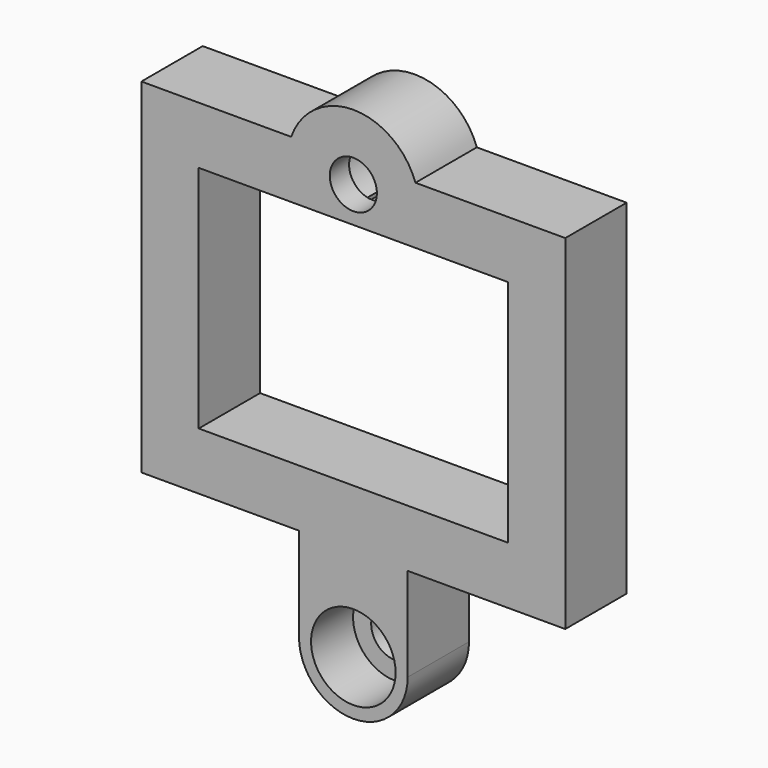
from build123d import *

# Parameters (mm, degrees)
F0_R     = 3.5
F1_DEPTH = 6.35
F0_R_2   = 2
F2_DEPTH = 2
F4_DEPTH = 4.35


with BuildPart() as f1:
    # F0 (on Front) → F1 (new body)
    with BuildSketch(Plane.XZ):
        with BuildLine():
            ThreePointArc((2.95, 12.45), (2.0859650045, 10.3640349955), (0, 9.5))
            ThreePointArc((0, 9.5), (-2.6469321865, 11.1475983722), (-2.3371991785, 14.25))
            Line((-2.3371991785, 14.25), (-5.144171459, 14.25))
            Line((-5.144171459, 14.25), (-17.55, 14.25))
            Line((-17.55, 14.25), (-17.55, -14.25))
            Line((-17.55, -14.25), (-4.5, -14.25))
            Line((-4.5, -14.25), (4.5, -14.25))
            Line((4.5, -14.25), (17.55, -14.25))
            Line((17.55, -14.25), (17.55, 14.25))
            Line((17.55, 14.25), (5.144171459, 14.25))
            Line((5.144171459, 14.25), (2.3371991785, 14.25))
            ThreePointArc((2.3371991785, 14.25), (2.7926007212, 13.4007266756), (2.95, 12.45))
        make_face()
        Polygon((-12.8, -9.5), (-12.8, 9.5), (0, 9.5), (12.8, 9.5), (12.8, -9.5), align=None, mode=Mode.SUBTRACT)
        with BuildLine():
            ThreePointArc((-2.3371991785, 14.25), (-2.6469321865, 11.1475983722), (0, 9.5))
            ThreePointArc((0, 9.5), (2.0859650045, 10.3640349955), (2.95, 12.45))
            ThreePointArc((2.95, 12.45), (2.7926007212, 13.4007266756), (2.3371991785, 14.25))
            Line((2.3371991785, 14.25), (0.75, 14.25))
            ThreePointArc((0.75, 14.25), (1.622498074, 13.5316653826), (1.95, 12.45))
            ThreePointArc((1.95, 12.45), (-1.0816653826, 10.827501926), (-0.75, 14.25))
            Line((-0.75, 14.25), (-2.3371991785, 14.25))
        make_face()
        with BuildLine():
            Line((-5.144171459, 14.25), (-2.3371991785, 14.25))
            ThreePointArc((-2.3371991785, 14.25), (0, 15.4), (2.3371991785, 14.25))
            Line((2.3371991785, 14.25), (5.144171459, 14.25))
            ThreePointArc((5.144171459, 14.25), (0, 17.9), (-5.144171459, 14.25))
        make_face()
        with BuildLine():
            ThreePointArc((2.3371991785, 14.25), (0, 15.4), (-2.3371991785, 14.25))
            Line((-2.3371991785, 14.25), (-0.75, 14.25))
            ThreePointArc((-0.75, 14.25), (0, 14.4), (0.75, 14.25))
            Line((0.75, 14.25), (2.3371991785, 14.25))
        make_face()
        with BuildLine():
            Line((4.5, -14.25), (-4.5, -14.25))
            Line((-4.5, -14.25), (-4.5, -22))
            ThreePointArc((-4.5, -22), (0, -26.5), (4.5, -22))
            Line((4.5, -22), (4.5, -14.25))
        make_face()
        with Locations((0, -22)):
            Circle(F0_R, mode=Mode.SUBTRACT)
    extrude(amount=F1_DEPTH)

    # F0 (on Front) → F2 (join)
    with BuildSketch(Plane.XZ):
        with Locations((0, -22)):
            Circle(F0_R)
        with Locations((0, -22)):
            Circle(F0_R_2, mode=Mode.SUBTRACT)
    extrude(amount=F2_DEPTH)

    # F0 (on Front) + F3 (on face) → F4 (cut)
    with BuildSketch(Plane.XZ):
        with BuildLine():
            ThreePointArc((-2.3371991785, 14.25), (-2.6469321865, 11.1475983722), (0, 9.5))
            ThreePointArc((0, 9.5), (2.0859650045, 10.3640349955), (2.95, 12.45))
            ThreePointArc((2.95, 12.45), (2.7926007212, 13.4007266756), (2.3371991785, 14.25))
            Line((2.3371991785, 14.25), (0.75, 14.25))
            ThreePointArc((0.75, 14.25), (1.622498074, 13.5316653826), (1.95, 12.45))
            ThreePointArc((1.95, 12.45), (-1.0816653826, 10.827501926), (-0.75, 14.25))
            Line((-0.75, 14.25), (-2.3371991785, 14.25))
        make_face()
        with BuildLine():
            ThreePointArc((2.3371991785, 14.25), (0, 15.4), (-2.3371991785, 14.25))
            Line((-2.3371991785, 14.25), (-0.75, 14.25))
            ThreePointArc((-0.75, 14.25), (0, 14.4), (0.75, 14.25))
            Line((0.75, 14.25), (2.3371991785, 14.25))
        make_face()
    with BuildSketch(Plane.XZ):
        with BuildLine():
            Line((-1.3135344248, 9.5), (0, 9.5))
            ThreePointArc((0, 9.5), (-0.6746464011, 9.5781796307), (-1.3135344248, 9.8085747569))
            Line((-1.3135344248, 9.8085747569), (-1.3135344248, 9.5))
        make_face()
        with BuildLine():
            Line((1.3135344248, 9.5), (1.3135344248, 9.8085747569))
            ThreePointArc((1.3135344248, 9.8085747569), (0.6746464011, 9.5781796307), (0, 9.5))
            Line((0, 9.5), (1.3135344248, 9.5))
        make_face()
    extrude(amount=F4_DEPTH, mode=Mode.SUBTRACT)


solid = f1.part
